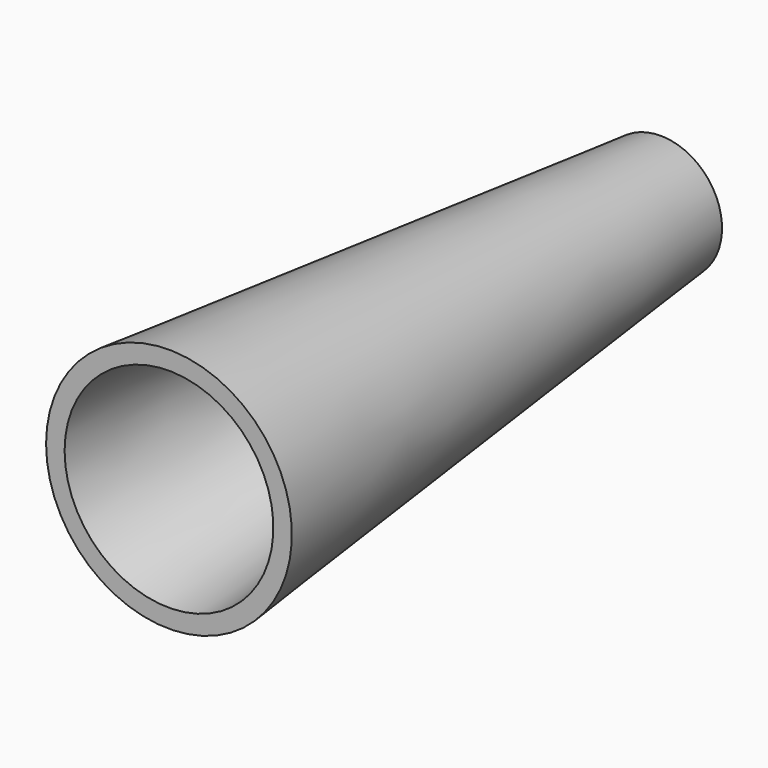
from build123d import *

# Parameters (mm, degrees)
F0_R       = 10
F1_DEPTH   = 25
F2_DEPTH   = 25
F3_R       = 5
F1_FACE1_R = 10
F5_T       = -1.5


with BuildPart() as f1:
    # F0 (on Front) → F1 (new body)
    with BuildSketch(Plane.XZ):
        Circle(F0_R)
    extrude(amount=F1_DEPTH)

    # F2 (add): a face of the model
    f2_faces = [f1.faces().sort_by_distance(p)[0] for p in [
        (0, 0, 0),
    ]]
    extrude(f2_faces, amount=F2_DEPTH)

    # F3 (on face) → F4 section 0
    with BuildSketch(Plane(origin=(0, 25, 0), x_dir=(-1, 0, 0), z_dir=(0, 1, 0))):
        Circle(F3_R)
    # F1_face1 (on face) → F4 section 1
    with BuildSketch(Plane.XZ.offset(25)):
        Circle(F1_FACE1_R)
    loft(mode=Mode.INTERSECT)

    # F5
    f5_openings = [f1.faces().sort_by_distance(p)[0] for p in [
        (0, -25, 0),
        (0, 25, 0),
    ]]
    offset(amount=F5_T, openings=f5_openings, kind=Kind.INTERSECTION)


solid = f1.part
